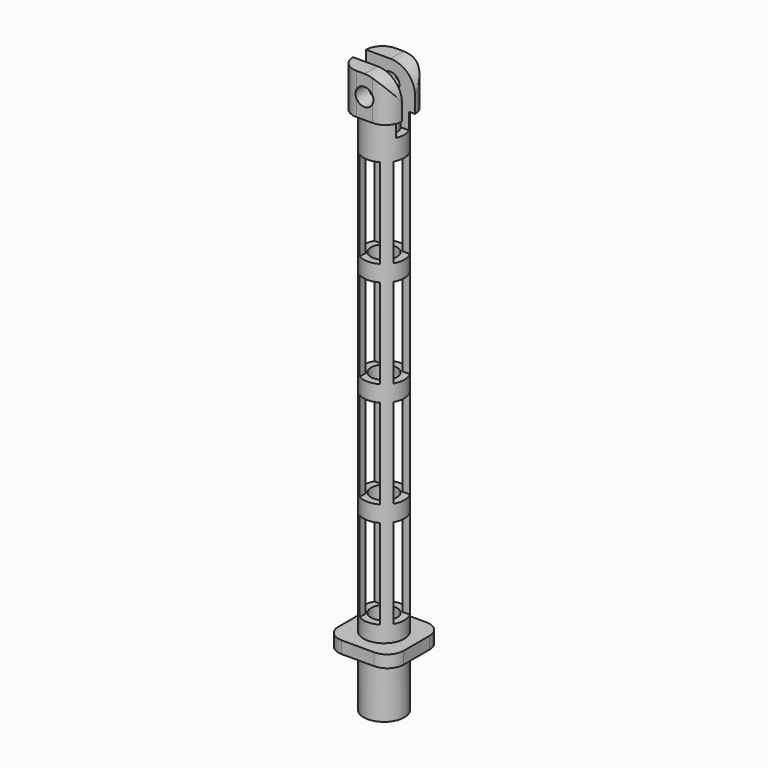
from build123d import *

# Parameters (mm, degrees)
SKETCH_R        = 2.5
SKETCH_R_2      = 1.6
PAD_DEPTH       = 65
PAD001_DEPTH    = 1.5
PAD002_DEPTH    = 5
SKETCH003_W     = 2
SKETCH003_H     = 7
POCKET_DEPTH    = 7.001
SKETCH004_R     = 1.1
POCKET001_DEPTH = 7.001
SKETCH006_W     = 2.5
SKETCH006_H     = 11
POCKET002_DEPTH = 8.001
SKETCH005_W     = 2.5
SKETCH005_H     = 11
POCKET003_DEPTH = 8.001
POCKET004_DEPTH = 7.001


with BuildPart() as part:
    # Sketch → Pad (new body)
    with BuildSketch(Plane.XY):
        Circle(SKETCH_R)
        Circle(SKETCH_R_2, mode=Mode.SUBTRACT)
    extrude(amount=PAD_DEPTH)

    # Sketch001 (on Face3 of Pad) → Pad001 (join)
    with BuildSketch(Plane(origin=(0, 0, 7), x_dir=(1, 0, 0), z_dir=(0, 0, -1))):
        with BuildLine():
            Line((-2, 4), (2, 4))
            ThreePointArc((4, 2), (3.414214, 3.414214), (2, 4))
            Line((4, 2), (4, -2))
            ThreePointArc((2, -4), (3.414214, -3.414214), (4, -2))
            Line((2, -4), (-2, -4))
            ThreePointArc((-4, -2), (-3.414214, -3.414214), (-2, -4))
            Line((-4, -2), (-4, 2))
            ThreePointArc((-2, 4), (-3.414214, 3.414214), (-4, 2))
        make_face()
    extrude(amount=-PAD001_DEPTH)

    # Sketch002 (on Face16 of Pad001) → Pad002 (join)
    with BuildSketch(Plane.XY.offset(65)):
        with BuildLine():
            Line((-1, 3), (1, 3))
            ThreePointArc((3, 1), (2.414214, 2.414214), (1, 3))
            Line((3, 1), (3, -1))
            ThreePointArc((1, -3), (2.414214, -2.414214), (3, -1))
            Line((1, -3), (-1, -3))
            ThreePointArc((-3, -1), (-2.414214, -2.414214), (-1, -3))
            Line((-3, -1), (-3, 1))
            ThreePointArc((-1, 3), (-2.414214, 2.414214), (-3, 1))
        make_face()
    extrude(amount=PAD002_DEPTH)

    # Sketch003 (on Face10 of Pad002) → Pocket (cut, through all)
    with BuildSketch(Plane.YZ.offset(3)):
        with Locations((0, 66.5)):
            Rectangle(SKETCH003_W, SKETCH003_H)
    extrude(amount=-POCKET_DEPTH, mode=Mode.SUBTRACT)

    # Sketch004 (on Face3 of Pocket) → Pocket001 (cut, through all)
    with BuildSketch(Plane.XZ.offset(3)):
        with Locations((0, 67.5)):
            Circle(SKETCH004_R)
    extrude(amount=-POCKET001_DEPTH, mode=Mode.SUBTRACT)

    # Sketch006 (on Face28 of Pocket001) → Pocket002 (cut, through all)
    with BuildSketch(Plane.XZ.offset(4)):
        with Locations((0, 16)):
            Rectangle(SKETCH006_W, SKETCH006_H)
        with Locations((0, 29)):
            Rectangle(SKETCH006_W, SKETCH006_H)
        with Locations((0, 42)):
            Rectangle(SKETCH006_W, SKETCH006_H)
        with Locations((0, 55)):
            Rectangle(SKETCH006_W, SKETCH006_H)
    extrude(amount=-POCKET002_DEPTH, mode=Mode.SUBTRACT)

    # Sketch005 (on Face31 of Pocket001) → Pocket003 (cut, through all)
    with BuildSketch(Plane.YZ.offset(4)):
        with Locations((0, 16)):
            Rectangle(SKETCH005_W, SKETCH005_H)
        with Locations((0, 29)):
            Rectangle(SKETCH005_W, SKETCH005_H)
        with Locations((0, 42)):
            Rectangle(SKETCH005_W, SKETCH005_H)
        with Locations((0, 55)):
            Rectangle(SKETCH005_W, SKETCH005_H)
    extrude(amount=-POCKET003_DEPTH, mode=Mode.SUBTRACT)

    # Sketch007 (on Face5 of Pocket003) → Pocket004 (cut, through all)
    with BuildSketch(Plane.XZ.offset(3)):
        with BuildLine():
            ThreePointArc((3, 67.251006), (2.034513, 69.208821), (0, 70))
            Line((0, 70), (3, 70))
            Line((3, 67.251006), (3, 70))
        make_face()
    extrude(amount=-POCKET004_DEPTH, mode=Mode.SUBTRACT)


solid = part.part
